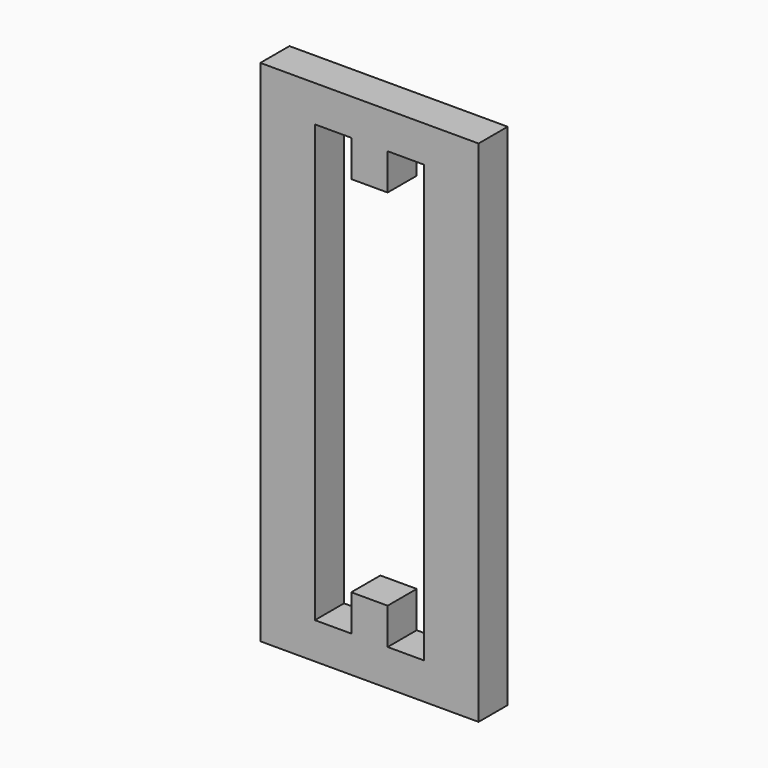
from build123d import *

# Parameters (mm, degrees)
F0_W     = 38.1
F0_H     = 88.9
F1_DEPTH = 3.175


with BuildPart() as f1:
    # F0 (on Front) → F1 (new body, symmetric)
    with BuildSketch(Plane.XZ):
        Rectangle(F0_W, F0_H)
        Polygon((-9.525, 38.1), (-3.175, 38.1), (-3.175, 31.75), (3.175, 31.75), (3.175, 38.1), (9.525, 38.1), (9.525, -38.1), (3.175, -38.1), (3.175, -31.75), (-3.175, -31.75), (-3.175, -38.1), (-9.525, -38.1), align=None, mode=Mode.SUBTRACT)
    extrude(amount=F1_DEPTH, both=True)


solid = f1.part
